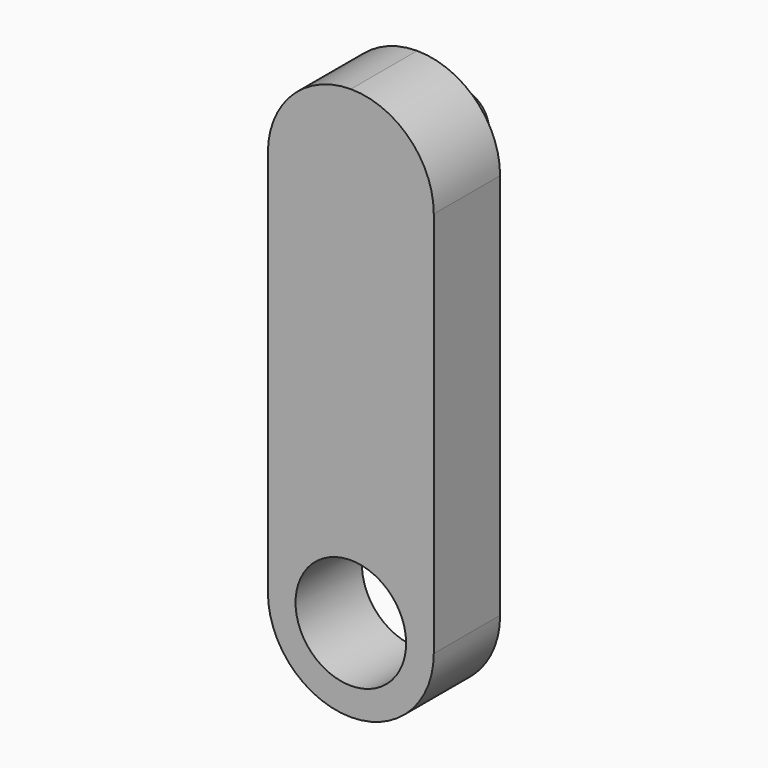
from build123d import *

# Parameters (mm, degrees)
F0_R     = 10
F1_DEPTH = 15
F3_DEPTH = 10


with BuildPart() as f1:
    # F0 (on Front) → F1 (new body)
    with BuildSketch(Plane.XZ):
        with BuildLine():
            ThreePointArc((0, -50), (10.606602, -45.606602), (15, -35))
            Line((15, -35), (15, 35))
            ThreePointArc((15, 35), (10.606602, 45.606602), (0, 50))
            ThreePointArc((0, 50), (-10.606602, 45.606602), (-15, 35))
            Line((-15, 35), (-15, -35))
            ThreePointArc((-15, -35), (-10.606602, -45.606602), (0, -50))
        make_face()
        with Locations((0, -35)):
            Circle(F0_R, mode=Mode.SUBTRACT)
    extrude(amount=F1_DEPTH)

    # F2 (on Front) → F3 (join)
    with BuildSketch(Plane.XZ):
        with BuildLine():
            ThreePointArc((0, 40), (-3.535534, 31.464466), (5, 35))
            ThreePointArc((5, 35), (3.535534, 38.535534), (0, 40))
        make_face()
    extrude(amount=-F3_DEPTH)


solid = f1.part
